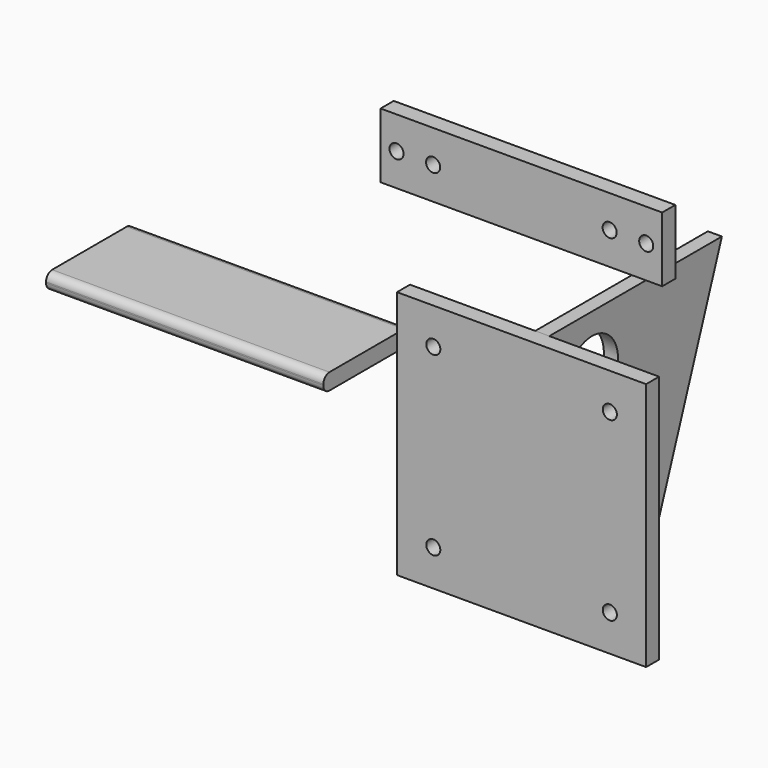
from build123d import *

# Parameters (mm, degrees)
F0_W     = 146.05
F0_H     = 146.05
F0_R     = 4.1275
F0_W_2   = 95.25
F0_H_2   = 95.25
F1_DEPTH = 9.525
F2_R     = 19.05
F3_DEPTH = 8.255
F4_W     = 162.56
F4_H     = 63.5
F5_DEPTH = 9.525
F6_R     = 4.445
F7_W     = 165.1
F7_H     = 38.1
F7_R     = 4.1275
F8_DEPTH = 9.652


with BuildPart() as f1:
    # F0 (on Front) → F1 (new body)
    with BuildSketch(Plane.XZ):
        Rectangle(F0_W, F0_H)
        with Locations((-51.7525, -51.7525)):
            Circle(F0_R, mode=Mode.SUBTRACT)
        with Locations((51.7525, -51.7525)):
            Circle(F0_R, mode=Mode.SUBTRACT)
        with Locations((-51.7525, 51.7525)):
            Circle(F0_R, mode=Mode.SUBTRACT)
        Rectangle(F0_W_2, F0_H_2, mode=Mode.SUBTRACT)
        with Locations((51.7525, 51.7525)):
            Circle(F0_R, mode=Mode.SUBTRACT)
        Rectangle(F0_W_2, F0_H_2)
    extrude(amount=F1_DEPTH)


with BuildPart() as f3:
    # F2 (on Right) → F3 (new body)
    with BuildSketch(Plane.YZ):
        Polygon((0, 72.692256), (0, -73.357744), (73.842147, -73.357744), (127, 72.692256), align=None)
        with Locations((31.75, 40.942256)):
            Circle(F2_R, mode=Mode.SUBTRACT)
    extrude(amount=F3_DEPTH)


with BuildPart() as f5:
    # F4 (on Top) → F5 (new body)
    with BuildSketch(Plane.XY):
        with Locations((-205.105, 31.75)):
            Rectangle(F4_W, F4_H)
    extrude(amount=F5_DEPTH)

    # F6
    f6_edges = [f5.edges().sort_by_distance(p)[0] for p in [
        (-205.105, 0, 9.525),
        (-205.105, 0, 0),
        (-205.105, 63.5, 9.525),
        (-205.105, 63.5, 0),
    ]]
    fillet(f6_edges, radius=F6_R)


with BuildPart() as f8:
    # F7 (on Front) → F8 (new body)
    with BuildSketch(Plane.XZ):
        with Locations((0, 145.717256)):
            Rectangle(F7_W, F7_H)
        with Locations((-73.189084, 145.717256)):
            Circle(F7_R, mode=Mode.SUBTRACT)
        with Locations((-51.7525, 145.704556)):
            Circle(F7_R, mode=Mode.SUBTRACT)
        with Locations((51.7525, 145.704556)):
            Circle(F7_R, mode=Mode.SUBTRACT)
        with Locations((73.189084, 145.717256)):
            Circle(F7_R, mode=Mode.SUBTRACT)
    extrude(amount=F8_DEPTH)


solid = Compound([f1.part, f3.part, f5.part, f8.part])
